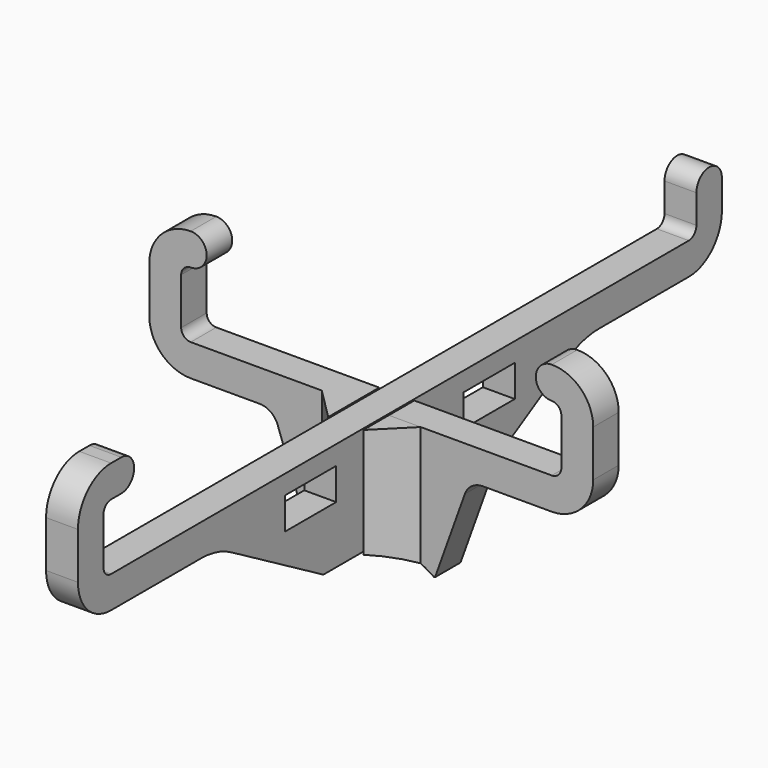
from build123d import *

# Parameters (mm, degrees)
SKETCH_W     = 10
SKETCH_H     = 5
PAD_DEPTH    = 2.5
PAD001_DEPTH = 2.5
PAD002_DEPTH = 20
POCKET_DEPTH = 10


with BuildPart() as vertical:
    # Sketch → Pad (new body, symmetric)
    with BuildSketch(Plane.YZ):
        with BuildLine():
            Line((63.1, 18.5), (63.1, 23.000007))
            ThreePointArc((63.1, 23.000007), (60.599997, 25.500007), (58.1, 23))
            Line((58.1, 18.50001), (58.1, 23))
            ThreePointArc((56.600003, 17), (57.660665, 17.439344), (58.1, 18.50001))
            Line((-56.600002, 17), (56.600003, 17))
            ThreePointArc((-58.1, 18.50001), (-57.660664, 17.439344), (-56.600002, 17))
            Line((-58.1, 25.799989), (-58.1, 18.50001))
            ThreePointArc((-56.600002, 27.3), (-57.660665, 26.860655), (-58.1, 25.799989))
            Line((-56.600002, 27.3), (-54.600002, 27.3))
            ThreePointArc((-54.600002, 27.3), (-52.100002, 29.8), (-54.600002, 32.3))
            Line((-54.600002, 32.3), (-56.599999, 32.3))
            ThreePointArc((-56.599999, 32.3), (-61.196194, 30.396194), (-63.1, 25.799999))
            Line((-63.1, 18.50001), (-63.1, 25.799999))
            ThreePointArc((-63.1, 18.50001), (-61.196198, 13.903809), (-56.6, 12))
            Line((-56.6, 12), (-38.96077, 12))
            ThreePointArc((-33, 10.392302), (-35.873883, 11.59102), (-38.96077, 12))
            Line((-15, 0), (-33, 10.392302))
            Line((-15, 0), (-2.75, 0))
            Line((-2.75, 0), (-2.75, 8.7))
            Line((-2.75, 8.7), (2.75, 8.7))
            Line((2.75, 8.7), (2.75, 0))
            Line((2.75, 0), (15, 0))
            Line((15, 0), (33, 10.392302))
            ThreePointArc((38.96077, 12), (35.873883, 11.59102), (33, 10.392302))
            Line((38.96077, 12), (56.6, 12))
            ThreePointArc((56.6, 12), (61.196194, 13.903806), (63.1, 18.5))
        make_face()
        with Locations((-17.5, 11.5)):
            Rectangle(SKETCH_W, SKETCH_H, mode=Mode.SUBTRACT)
        with Locations((17.5, 11.5)):
            Rectangle(SKETCH_W, SKETCH_H, mode=Mode.SUBTRACT)
    extrude(amount=PAD_DEPTH, both=True)


with BuildPart() as fusion:
    # Sketch001 → Pad001 (new body, symmetric)
    with BuildSketch(Plane.XZ):
        with BuildLine():
            Line((17.5, 12.000004), (28.300004, 12))
            ThreePointArc((28.300004, 12), (32.896197, 13.903808), (34.8, 18.500003))
            Line((34.8, 25.800001), (34.8, 18.500003))
            ThreePointArc((34.8, 25.800001), (32.896198, 30.396195), (28.300008, 32.300004))
            ThreePointArc((28.300008, 32.300004), (25.800007, 29.800005), (28.300007, 27.300004))
            ThreePointArc((29.8, 25.799995), (29.360666, 26.860659), (28.300007, 27.300004))
            Line((29.8, 18.50001), (29.8, 25.799995))
            ThreePointArc((28.300007, 17), (29.360666, 17.439346), (29.8, 18.50001))
            Line((2.75, 17), (28.300007, 17))
            Line((2.75, 8.3), (2.75, 17))
            Line((-2.75, 8.3), (2.75, 8.3))
            Line((-2.75, 17.000004), (-2.75, 8.3))
            Line((-28.3, 17.000004), (-2.75, 17.000004))
            ThreePointArc((-29.8, 18.50001), (-29.360662, 17.439346), (-28.3, 17.000004))
            Line((-29.8, 18.50001), (-29.8, 25.799995))
            ThreePointArc((-28.300007, 27.300004), (-29.360666, 26.860659), (-29.8, 25.799995))
            ThreePointArc((-28.300007, 27.300004), (-25.800007, 29.800005), (-28.300008, 32.300004))
            ThreePointArc((-28.300008, 32.300004), (-32.896198, 30.396195), (-34.8, 25.800001))
            Line((-34.8, 25.800001), (-34.8, 18.500006))
            ThreePointArc((-34.8, 18.500006), (-32.896197, 13.903813), (-28.300006, 12.000004))
            Line((-28.300006, 12.000004), (-17.5, 12.000004))
            ThreePointArc((-14.676752, 10.014534), (-15.774252, 11.453939), (-17.5, 12.000004))
            Line((-14.676752, 10.014534), (-10, -3))
            Line((-10, -3), (10, -3))
            Line((10, -3), (14.676751, 10.014534))
            ThreePointArc((17.5, 12.000004), (15.774251, 11.453939), (14.676751, 10.014534))
        make_face()
    extrude(amount=PAD001_DEPTH, both=True)

    # Sketch002 → Pad002 (new body)
    with BuildSketch(Plane(origin=(0, 0, 17.000004), x_dir=(-1, 0, 0), z_dir=(0, 0, 1))):
        Polygon((-7.75, 2.5), (-2.75, 7.5), (-2.75, 2.5), align=None)
        Polygon((2.75, 7.5), (2.75, 2.5), (7.75, 2.5), align=None)
    extrude(amount=-PAD002_DEPTH)

    # Sketch003 → Pocket (cut)
    with BuildSketch(Plane(origin=(0, 2.5, 0), x_dir=(1, 0, 0), z_dir=(0, 1, 0))):
        with BuildLine():
            ThreePointArc((-10, 3.138593), (0, 0), (10, 3.138593))
            Line((-10, 3.138593), (10, 3.138593))
        make_face()
    extrude(amount=-POCKET_DEPTH, mode=Mode.SUBTRACT)

    # Fusion: union Vertical
    add(vertical.part)


solid = fusion.part
